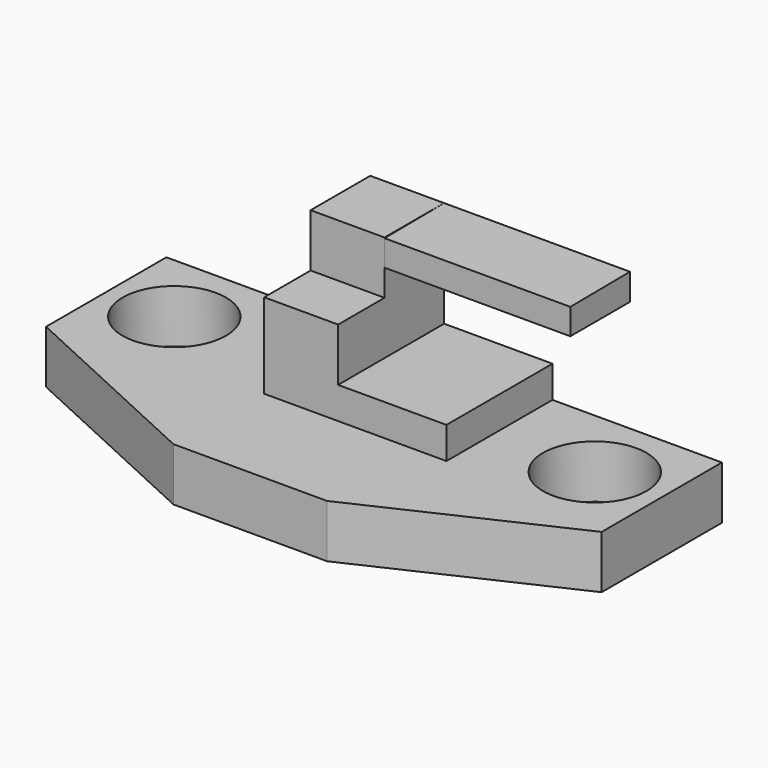
from build123d import *

# Parameters (mm, degrees)
F1_DEPTH  = 12.7
F2_R      = 12.3782206299
F3_DEPTH  = 25.4
F4_W      = 43.5863994062
F4_H      = 31.6992001608
F5_DEPTH  = 7.62
F6_W      = 17.6784005016
F6_H      = 13.8683998957
F7_DEPTH  = 12.7
F8_W      = 17.6784005016
F8_H      = 17.8308002651
F9_DEPTH  = 25.4
F11_DEPTH = 44.45


with BuildPart() as f1:
    # F0 (on Top) → F1 (new body)
    with BuildSketch(Plane.XY):
        Polygon((-66.4464011788, -18.1356016546), (-18.1801488484, -40.3860025108), (18.592800945, -40.3860025108), (66.4464011788, -18.1356016546), (66.4464011788, 17.8308002651), (-66.4464011788, 17.8308002651), align=None)
    extrude(amount=F1_DEPTH)

    # F2 (on face) → F3 (cut)
    with BuildSketch(Plane.XY.offset(12.7)):
        with Locations((50.2920001745, 0)):
            Circle(F2_R)
        with Locations((-50.2920001745, 0)):
            Circle(F2_R)
    extrude(amount=-F3_DEPTH, mode=Mode.SUBTRACT)

    # F4 (on face) → F5 (join)
    with BuildSketch(Plane.XY.offset(12.7)):
        with Locations((4.1147992015, 1.9812001847)):
            Rectangle(F4_W, F4_H)
    extrude(amount=F5_DEPTH)

    # F6 (on face) → F7 (join)
    with BuildSketch(Plane.XY.offset(20.32)):
        with Locations((-8.8392002508, -6.9341999479)):
            Rectangle(F6_W, F6_H)
    extrude(amount=F7_DEPTH)

    # F8 (on face) → F9 (join)
    with BuildSketch(Plane.XY.offset(20.32)):
        with Locations((-8.8392002508, 8.9154001325)):
            Rectangle(F8_W, F8_H)
    extrude(amount=F9_DEPTH)

    # F10 (on face) → F11 (join)
    with BuildSketch(Plane.YZ):
        Polygon((-1.0628e-06, 45.5676019192), (0, 39.37), (17.8308002651, 39.37), (17.8308002651, 45.72), align=None)
    extrude(amount=F11_DEPTH)


solid = f1.part
